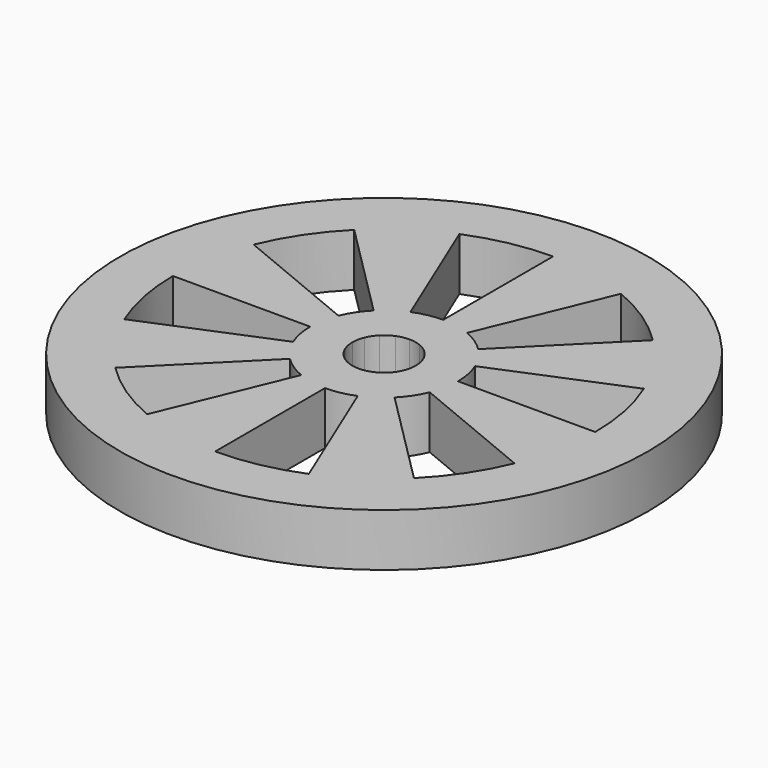
from build123d import *

# Parameters (mm, degrees)
F0_R     = 31.75
F1_DEPTH = 6.35
F3_DEPTH = 25.4


with BuildPart() as f1:
    # F0 (on Top) → F1 (new body)
    with BuildSketch(Plane.XY):
        Circle(F0_R)
    extrude(amount=F1_DEPTH)

    # F2 (on face) → F3 (cut)
    with BuildSketch(Plane.XY.offset(6.35)):
        with BuildLine():
            Line((-1.4580238773, 3.5199810189), (0, 0))
            Line((0, 0), (0, 3.81))
            ThreePointArc((0, 3.81), (-0.7432941269, 3.7367919183), (-1.4580238773, 3.5199810189))
        make_face()
        with BuildLine():
            ThreePointArc((3.5199810189, -1.4580238773), (3.7367919183, -0.7432941269), (3.81, 0))
            Line((3.81, 0), (0, 0))
            Line((0, 0), (3.5199810189, -1.4580238773))
        make_face()
        with BuildLine():
            Line((1.4580238773, -3.5199810189), (0, 0))
            Line((0, 0), (0, -3.81))
            ThreePointArc((0, -3.81), (0.7432941269, -3.7367919183), (1.4580238773, -3.5199810189))
        make_face()
        with BuildLine():
            Line((-3.5199810189, -1.4580238773), (0, 0))
            Line((0, 0), (-3.81, 0))
            ThreePointArc((-3.81, 0), (-3.7367919183, -0.7432941269), (-3.5199810189, -1.4580238773))
        make_face()
        with BuildLine():
            Line((-3.81, 0), (0, 0))
            Line((0, 0), (-3.5199810189, 1.4580238773))
            ThreePointArc((-3.5199810189, 1.4580238773), (-3.7367919183, 0.7432941269), (-3.81, 0))
        make_face()
        with BuildLine():
            Line((0, 0), (3.81, 0))
            ThreePointArc((3.81, 0), (3.7367919183, 0.7432941269), (3.5199810189, 1.4580238773))
            Line((3.5199810189, 1.4580238773), (0, 0))
        make_face()
        with BuildLine():
            Line((0, 0), (3.5199810189, 1.4580238773))
            ThreePointArc((3.5199810189, 1.4580238773), (3.1678992229, 2.1167225878), (2.6940768363, 2.6940768363))
            Line((2.6940768363, 2.6940768363), (0, 0))
        make_face()
        with BuildLine():
            Line((1.4580238773, 3.5199810189), (0, 0))
            Line((0, 0), (2.6940768363, 2.6940768363))
            ThreePointArc((2.6940768363, 2.6940768363), (2.1167225878, 3.1678992229), (1.4580238773, 3.5199810189))
        make_face()
        with BuildLine():
            Line((0, 3.81), (0, 0))
            Line((0, 0), (1.4580238773, 3.5199810189))
            ThreePointArc((1.4580238773, 3.5199810189), (0.7432941269, 3.7367919183), (0, 3.81))
        make_face()
        with BuildLine():
            Line((-2.6940768363, 2.6940768363), (0, 0))
            Line((0, 0), (-1.4580238773, 3.5199810189))
            ThreePointArc((-1.4580238773, 3.5199810189), (-2.1167225878, 3.1678992229), (-2.6940768363, 2.6940768363))
        make_face()
        with BuildLine():
            Line((-3.5199810189, 1.4580238773), (0, 0))
            Line((0, 0), (-2.6940768363, 2.6940768363))
            ThreePointArc((-2.6940768363, 2.6940768363), (-3.1678992229, 2.1167225878), (-3.5199810189, 1.4580238773))
        make_face()
        with BuildLine():
            Line((-1.4580238773, -3.5199810189), (0, 0))
            Line((0, 0), (-2.6940768363, -2.6940768363))
            ThreePointArc((-2.6940768363, -2.6940768363), (-2.1167225878, -3.1678992229), (-1.4580238773, -3.5199810189))
        make_face()
        with BuildLine():
            Line((-2.6940768363, -2.6940768363), (0, 0))
            Line((0, 0), (-3.5199810189, -1.4580238773))
            ThreePointArc((-3.5199810189, -1.4580238773), (-3.1678992229, -2.1167225878), (-2.6940768363, -2.6940768363))
        make_face()
        with BuildLine():
            ThreePointArc((2.6940768363, -2.6940768363), (3.1678992229, -2.1167225878), (3.5199810189, -1.4580238773))
            Line((3.5199810189, -1.4580238773), (0, 0))
            Line((0, 0), (2.6940768363, -2.6940768363))
        make_face()
        with BuildLine():
            Line((2.6940768363, -2.6940768363), (0, 0))
            Line((0, 0), (1.4580238773, -3.5199810189))
            ThreePointArc((1.4580238773, -3.5199810189), (2.1167225878, -3.1678992229), (2.6940768363, -2.6940768363))
        make_face()
        with BuildLine():
            Line((0, -3.81), (0, 0))
            Line((0, 0), (-1.4580238773, -3.5199810189))
            ThreePointArc((-1.4580238773, -3.5199810189), (-0.7432941269, -3.7367919183), (0, -3.81))
        make_face()
        with BuildLine():
            ThreePointArc((-3.4020557137, 8.213289044), (-1.7343529627, 8.7191811428), (0, 8.89))
            Line((0, 8.89), (0, 25.4))
            ThreePointArc((0, 25.4), (-4.9552941792, 24.9119461222), (-9.7201591821, 23.4665401258))
            Line((-9.7201591821, 23.4665401258), (-3.4020557137, 8.213289044))
        make_face()
        with BuildLine():
            ThreePointArc((3.4020557137, 8.213289044), (4.9390193715, 7.3917648534), (6.2861792847, 6.2861792847))
            Line((6.2861792847, 6.2861792847), (17.9605122421, 17.9605122421))
            ThreePointArc((17.9605122421, 17.9605122421), (14.1114839187, 21.1193281525), (9.7201591821, 23.4665401258))
            Line((9.7201591821, 23.4665401258), (3.4020557137, 8.213289044))
        make_face()
        with BuildLine():
            ThreePointArc((8.213289044, 3.4020557137), (8.7191811428, 1.7343529627), (8.89, 0))
            Line((8.89, 0), (25.4, 0))
            ThreePointArc((25.4, 0), (24.9119461222, 4.9552941792), (23.4665401258, 9.7201591821))
            Line((23.4665401258, 9.7201591821), (8.213289044, 3.4020557137))
        make_face()
        with BuildLine():
            Line((23.4665401258, -9.7201591821), (8.213289044, -3.4020557137))
            ThreePointArc((8.213289044, -3.4020557137), (7.3917648534, -4.9390193715), (6.2861792847, -6.2861792847))
            Line((6.2861792847, -6.2861792847), (17.9605122421, -17.9605122421))
            ThreePointArc((17.9605122421, -17.9605122421), (21.1193281525, -14.1114839187), (23.4665401258, -9.7201591821))
        make_face()
        with BuildLine():
            ThreePointArc((3.4020557137, -8.213289044), (1.7343529627, -8.7191811428), (0, -8.89))
            Line((0, -8.89), (0, -25.4))
            ThreePointArc((0, -25.4), (4.9552941792, -24.9119461222), (9.7201591821, -23.4665401258))
            Line((9.7201591821, -23.4665401258), (3.4020557137, -8.213289044))
        make_face()
        with BuildLine():
            ThreePointArc((-3.4020557137, -8.213289044), (-4.9390193715, -7.3917648534), (-6.2861792847, -6.2861792847))
            Line((-6.2861792847, -6.2861792847), (-17.9605122421, -17.9605122421))
            ThreePointArc((-17.9605122421, -17.9605122421), (-14.1114839187, -21.1193281525), (-9.7201591821, -23.4665401258))
            Line((-9.7201591821, -23.4665401258), (-3.4020557137, -8.213289044))
        make_face()
        with BuildLine():
            ThreePointArc((-8.213289044, -3.4020557137), (-8.7191811428, -1.7343529627), (-8.89, 0))
            Line((-8.89, 0), (-25.4, 0))
            ThreePointArc((-25.4, 0), (-24.9119461222, -4.9552941792), (-23.4665401258, -9.7201591821))
            Line((-23.4665401258, -9.7201591821), (-8.213289044, -3.4020557137))
        make_face()
        with BuildLine():
            ThreePointArc((-8.213289044, 3.4020557137), (-7.3917648534, 4.9390193715), (-6.2861792847, 6.2861792847))
            Line((-6.2861792847, 6.2861792847), (-17.9605122421, 17.9605122421))
            ThreePointArc((-17.9605122421, 17.9605122421), (-21.1193281525, 14.1114839187), (-23.4665401258, 9.7201591821))
            Line((-23.4665401258, 9.7201591821), (-8.213289044, 3.4020557137))
        make_face()
    extrude(amount=-F3_DEPTH, mode=Mode.SUBTRACT)


solid = f1.part
